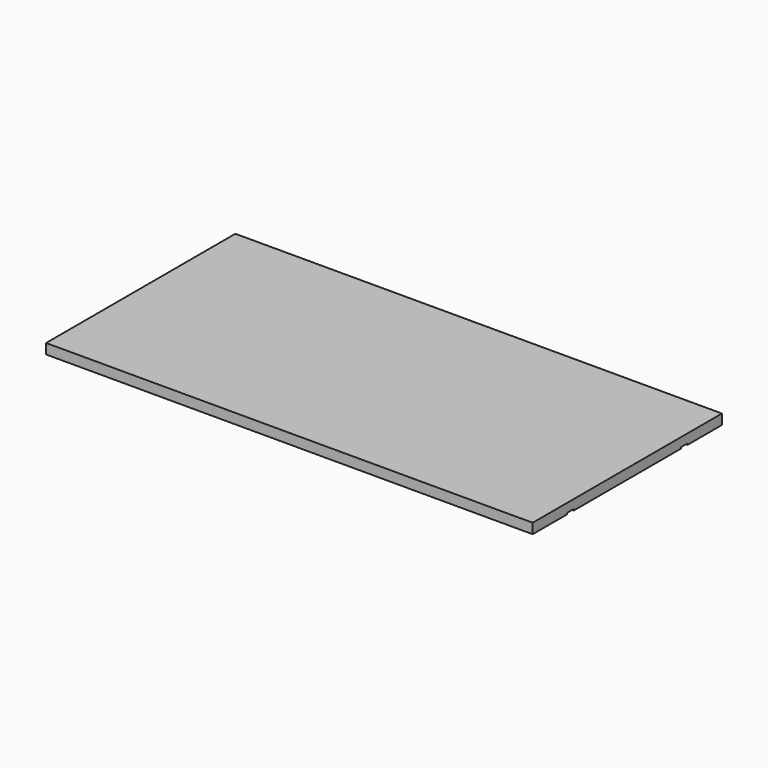
from build123d import *

# Parameters (mm, degrees)
F0_W     = 16.256
F0_H     = 12.954
F1_DEPTH = 16.51
F2_DEPTH = 19.05


with BuildPart() as f1:
    # F0 (on Top) → F1 (new body)
    with BuildSketch(Plane.XY):
        with BuildLine():
            Line((457.2, 141.097), (457.2, 222.25))
            Line((457.2, 222.25), (-457.2, 222.25))
            Line((-457.2, 222.25), (-457.2, 141.097))
            Line((-457.2, 141.097), (-440.357985, 141.097))
            ThreePointArc((-440.357985, 141.097), (-437.388, 133.35), (-440.357985, 125.603))
            Line((-440.357985, 125.603), (-457.2, 125.603))
            Line((-457.2, 125.603), (-457.2, -125.603))
            Line((-457.2, -125.603), (-440.357985, -125.603))
            ThreePointArc((-440.357985, -125.603), (-437.388, -133.35), (-440.357985, -141.097))
            Line((-440.357985, -141.097), (-457.2, -141.097))
            Line((-457.2, -141.097), (-457.2, -222.25))
            Line((-457.2, -222.25), (457.2, -222.25))
            Line((457.2, -222.25), (457.2, -141.097))
            Line((457.2, -141.097), (440.357985, -141.097))
            ThreePointArc((440.357985, -141.097), (437.388, -133.35), (440.357985, -125.603))
            Line((440.357985, -125.603), (457.2, -125.603))
            Line((457.2, -125.603), (457.2, 125.603))
            Line((457.2, 125.603), (440.357985, 125.603))
            ThreePointArc((440.357985, 125.603), (437.388, 133.35), (440.357985, 141.097))
            Line((440.357985, 141.097), (457.2, 141.097))
        make_face()
        with BuildLine():
            Line((457.2, 125.603), (457.2, 141.097))
            Line((457.2, 141.097), (440.357985, 141.097))
            ThreePointArc((440.357985, 141.097), (437.388, 133.35), (440.357985, 125.603))
            Line((440.357985, 125.603), (457.2, 125.603))
        make_face()
        with BuildLine():
            Line((-440.357985, 141.097), (-457.2, 141.097))
            Line((-457.2, 141.097), (-457.2, 139.827))
            Line((-457.2, 139.827), (-440.944, 139.827))
            ThreePointArc((-440.944, 139.827), (-438.658, 133.35), (-440.944, 126.873))
            Line((-440.944, 126.873), (-457.2, 126.873))
            Line((-457.2, 126.873), (-457.2, 125.603))
            Line((-457.2, 125.603), (-440.357985, 125.603))
            ThreePointArc((-440.357985, 125.603), (-437.388, 133.35), (-440.357985, 141.097))
        make_face()
        with Locations((-449.072, 133.35)):
            Rectangle(F0_W, F0_H)
        with BuildLine():
            Line((457.2, -141.097), (457.2, -125.603))
            Line((457.2, -125.603), (440.357985, -125.603))
            ThreePointArc((440.357985, -125.603), (437.388, -133.35), (440.357985, -141.097))
            Line((440.357985, -141.097), (457.2, -141.097))
        make_face()
        with BuildLine():
            Line((-440.357985, -125.603), (-457.2, -125.603))
            Line((-457.2, -125.603), (-457.2, -126.873))
            Line((-457.2, -126.873), (-440.944, -126.873))
            ThreePointArc((-440.944, -126.873), (-438.658, -133.35), (-440.944, -139.827))
            Line((-440.944, -139.827), (-457.2, -139.827))
            Line((-457.2, -139.827), (-457.2, -141.097))
            Line((-457.2, -141.097), (-440.357985, -141.097))
            ThreePointArc((-440.357985, -141.097), (-437.388, -133.35), (-440.357985, -125.603))
        make_face()
        with Locations((-449.072, -133.35)):
            Rectangle(F0_W, F0_H)
        with BuildLine():
            ThreePointArc((-440.944, 126.873), (-438.658, 133.35), (-440.944, 139.827))
            Line((-440.944, 139.827), (-440.944, 126.873))
        make_face()
        with BuildLine():
            ThreePointArc((-440.944, -139.827), (-438.658, -133.35), (-440.944, -126.873))
            Line((-440.944, -126.873), (-440.944, -139.827))
        make_face()
    extrude(amount=-F1_DEPTH)

    # F0 (on Top) → F2 (join)
    with BuildSketch(Plane.XY):
        with BuildLine():
            Line((457.2, 141.097), (457.2, 222.25))
            Line((457.2, 222.25), (-457.2, 222.25))
            Line((-457.2, 222.25), (-457.2, 141.097))
            Line((-457.2, 141.097), (-440.357985, 141.097))
            ThreePointArc((-440.357985, 141.097), (-437.388, 133.35), (-440.357985, 125.603))
            Line((-440.357985, 125.603), (-457.2, 125.603))
            Line((-457.2, 125.603), (-457.2, -125.603))
            Line((-457.2, -125.603), (-440.357985, -125.603))
            ThreePointArc((-440.357985, -125.603), (-437.388, -133.35), (-440.357985, -141.097))
            Line((-440.357985, -141.097), (-457.2, -141.097))
            Line((-457.2, -141.097), (-457.2, -222.25))
            Line((-457.2, -222.25), (457.2, -222.25))
            Line((457.2, -222.25), (457.2, -141.097))
            Line((457.2, -141.097), (440.357985, -141.097))
            ThreePointArc((440.357985, -141.097), (437.388, -133.35), (440.357985, -125.603))
            Line((440.357985, -125.603), (457.2, -125.603))
            Line((457.2, -125.603), (457.2, 125.603))
            Line((457.2, 125.603), (440.357985, 125.603))
            ThreePointArc((440.357985, 125.603), (437.388, 133.35), (440.357985, 141.097))
            Line((440.357985, 141.097), (457.2, 141.097))
        make_face()
    extrude(amount=-F2_DEPTH)


solid = f1.part
